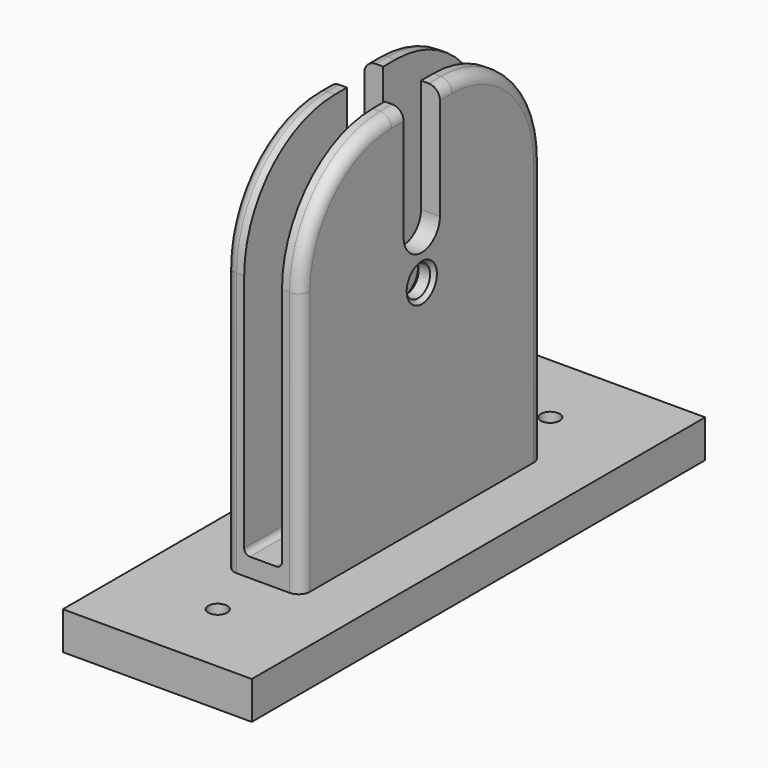
from build123d import *

# Parameters (mm, degrees)
F0_W     = 50
F0_H     = 150
F0_R     = 2.5
F0_W_2   = 20
F0_H_2   = 80
F1_DEPTH = 10
F2_DEPTH = 100
F4_DEPTH = 20
F5_W     = 10
F5_H     = 95
F6_DEPTH = 115.001
F7_R     = 1.5
F8_R     = 4
F9_DEPTH = 35.001
F10_SIZE = 1
F11_R    = 30
F12_R    = 3


with BuildPart() as f1:
    # F0 (on Top) → F1 (new body)
    with BuildSketch(Plane.XY):
        Rectangle(F0_W, F0_H)
        with Locations((0, -55)):
            Circle(F0_R, mode=Mode.SUBTRACT)
        Rectangle(F0_W_2, F0_H_2, mode=Mode.SUBTRACT)
        with Locations((0, 55)):
            Circle(F0_R, mode=Mode.SUBTRACT)
        Rectangle(F0_W_2, F0_H_2)
    extrude(amount=-F1_DEPTH)

    # F0 (on Top) → F2 (join)
    with BuildSketch(Plane.XY):
        Rectangle(F0_W_2, F0_H_2)
    extrude(amount=F2_DEPTH)

    # F3 (on face) → F4 (cut, through all)
    with BuildSketch(Plane(origin=(-10, 0, 0), x_dir=(0, -1, 0), z_dir=(-1, 0, 0))):
        with BuildLine():
            Line((-6, 100), (-6, 70))
            ThreePointArc((-6, 70), (0, 64), (6, 70))
            Line((6, 70), (6, 100))
            Line((6, 100), (-6, 100))
        make_face()
    extrude(amount=-F4_DEPTH, mode=Mode.SUBTRACT)

    # F5 (on face) → F6 (cut, through all)
    with BuildSketch(Plane.XZ.offset(40)):
        with Locations((0, 52.5)):
            Rectangle(F5_W, F5_H)
    extrude(amount=-F6_DEPTH, mode=Mode.SUBTRACT)

    # F7
    f7_edges = [f1.edges().sort_by_distance(p)[0] for p in [
        (5, 0, 5),
        (-5, 0, 5),
    ]]
    fillet(f7_edges, radius=F7_R)

    # F8 (on face) → F9 (cut, through all)
    with BuildSketch(Plane(origin=(-10, 0, 0), x_dir=(0, -1, 0), z_dir=(-1, 0, 0))):
        with Locations((0, 57)):
            Circle(F8_R)
    extrude(amount=-F9_DEPTH, mode=Mode.SUBTRACT)

    # F10
    f10_edges = [f1.edges().sort_by_distance(p)[0] for p in [
        (-10, 4, 57),
        (-5, 4, 57),
        (5, 4, 57),
        (10, 4, 57),
    ]]
    chamfer(f10_edges, length=F10_SIZE)

    # F11
    f11_edges = [f1.edges().sort_by_distance(p)[0] for p in [
        (-7.5, 40, 100),
        (7.5, 40, 100),
        (7.5, -40, 100),
        (-7.5, -40, 100),
    ]]
    fillet(f11_edges, radius=F11_R)

    # F12
    f12_edges = [f1.edges().sort_by_distance(p)[0] for p in [
        (-10, 31.213203, 91.213203),
        (-10, 8, 100),
        (-10, -8, 100),
        (-10, -31.213203, 91.213203),
        (10, -31.213203, 91.213203),
        (10, -8, 100),
        (10, 8, 100),
        (10, 31.213203, 91.213203),
    ]]
    fillet(f12_edges, radius=F12_R)


solid = f1.part
